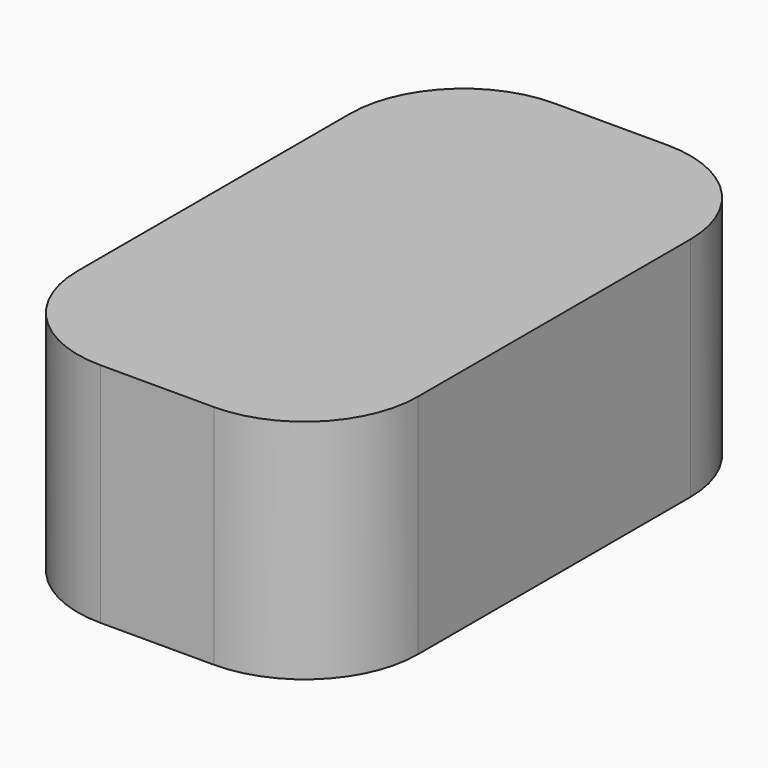
from build123d import *

# Parameters (mm, degrees)
F0_W     = 15
F0_H     = 25
F1_DEPTH = 10
F2_R     = 5
F3_T     = -1.5


with BuildPart() as f1:
    # F0 (on Top) → F1 (new body)
    with BuildSketch(Plane.XY):
        with Locations((5.691646, 19.106194)):
            Rectangle(F0_W, F0_H)
    extrude(amount=F1_DEPTH)

    # F2
    f2_edges = [f1.edges().sort_by_distance(p)[0] for p in [
        (13.191646, 6.606194, 5),
        (-1.808354, 6.606194, 5),
        (13.191646, 31.606194, 5),
        (-1.808354, 31.606194, 5),
    ]]
    fillet(f2_edges, radius=F2_R)

    # F3
    f3_openings = [f1.faces().sort_by_distance(p)[0] for p in [
        (5.691646, 19.106194, 0),
    ]]
    offset(amount=F3_T, openings=f3_openings)


solid = f1.part
